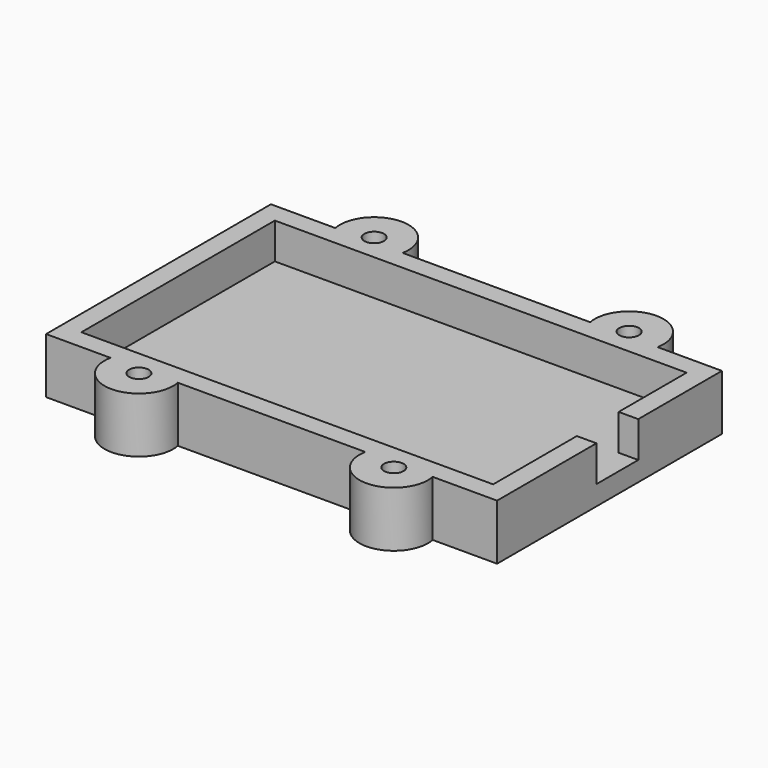
from build123d import *

# Parameters (mm, degrees)
BOX007_W          = 63
BOX007_H          = 37
BOX007_DEPTH      = 5.5
BOX006_W          = 10
BOX006_H          = 8
BOX006_DEPTH      = 5.5
CYLINDER016_R     = 3.25
CYLINDER016_DEPTH = 3
CYLINDER017_R     = 1.5
CYLINDER017_DEPTH = 8.5
CYLINDER018_R     = 5.25
CYLINDER018_DEPTH = 8.5
CYLINDER014_R     = 3.25
CYLINDER014_DEPTH = 3
CYLINDER013_R     = 1.5
CYLINDER013_DEPTH = 8.5
CYLINDER015_R     = 5.25
CYLINDER015_DEPTH = 8.5
CYLINDER010_R     = 3.25
CYLINDER010_DEPTH = 3
CYLINDER009_R     = 1.5
CYLINDER009_DEPTH = 8.5
CYLINDER008_R     = 5.25
CYLINDER008_DEPTH = 8.5
CYLINDER021_R     = 3.25
CYLINDER021_DEPTH = 3
CYLINDER020_R     = 1.5
CYLINDER020_DEPTH = 8.5
CYLINDER019_R     = 5.25
CYLINDER019_DEPTH = 8.5
CYLINDER023_R     = 3.25
CYLINDER023_DEPTH = 3
CYLINDER022_R     = 1.5
CYLINDER022_DEPTH = 8.5
CYLINDER025_R     = 3.25
CYLINDER025_DEPTH = 3
CYLINDER024_R     = 1.5
CYLINDER024_DEPTH = 8.5
CYLINDER026_R     = 3.25
CYLINDER026_DEPTH = 3
CYLINDER027_R     = 1.5
CYLINDER027_DEPTH = 8.5
CYLINDER029_R     = 3.25
CYLINDER029_DEPTH = 3
CYLINDER028_R     = 1.5
CYLINDER028_DEPTH = 8.5
BOX_W             = 63
BOX_H             = 37
BOX_DEPTH         = 6
BOX001_W          = 10
BOX001_H          = 8
BOX001_DEPTH      = 6
BOX002_W          = 69
BOX002_H          = 43
BOX002_DEPTH      = 8.5


with BuildPart() as cube006:
    # Box007 → Box007 (new body)
    with BuildSketch(Plane.XY):
        with Locations((31.5, 18.5)):
            Rectangle(BOX007_W, BOX007_H)
    extrude(amount=BOX007_DEPTH)


with BuildPart() as battery_model002:
    # Box006 → Box006 (new body)
    with BuildSketch(Plane(origin=(63, 16, 0), x_dir=(1, 0, 0), z_dir=(0, 0, 1))):
        with Locations((5, 4)):
            Rectangle(BOX006_W, BOX006_H)
    extrude(amount=BOX006_DEPTH)

    # Fusion012: union Cube006
    add(cube006.part)


with BuildPart() as battery_model002_1:
    # Fusion012 placement: moved
    add(battery_model002.part.moved(Location((3, 3, 3))))


with BuildPart() as nut_recess002:
    # Cylinder016 → Cylinder016 (new body)
    with BuildSketch(Plane(origin=(15, -1, 0), x_dir=(1, 0, 0), z_dir=(0, 0, 1))):
        Circle(CYLINDER016_R)
    extrude(amount=CYLINDER016_DEPTH)


with BuildPart() as base_bolt_assembly002:
    # Cylinder017 → Cylinder017 (new body)
    with BuildSketch(Plane(origin=(15, -1, 0), x_dir=(1, 0, 0), z_dir=(0, 0, 1))):
        Circle(CYLINDER017_R)
    extrude(amount=CYLINDER017_DEPTH)

    # Fusion004: union Nut Recess002
    add(nut_recess002.part)


with BuildPart() as obj1:
    # Cylinder018 → Cylinder018 (new body)
    with BuildSketch(Plane(origin=(15, -1, 0), x_dir=(1, 0, 0), z_dir=(0, 0, 1))):
        Circle(CYLINDER018_R)
    extrude(amount=CYLINDER018_DEPTH)

    # Cut005: cut Base Bolt Assembly002
    add(base_bolt_assembly002.part, mode=Mode.SUBTRACT)


with BuildPart() as obj1_1:
    # Cut005 placement: moved
    add(obj1.part.moved(Location((39, 45, 0))))


with BuildPart() as nut_recess001:
    # Cylinder014 → Cylinder014 (new body)
    with BuildSketch(Plane(origin=(15, -1, 0), x_dir=(1, 0, 0), z_dir=(0, 0, 1))):
        Circle(CYLINDER014_R)
    extrude(amount=CYLINDER014_DEPTH)


with BuildPart() as base_bolt_assembly001:
    # Cylinder013 → Cylinder013 (new body)
    with BuildSketch(Plane(origin=(15, -1, 0), x_dir=(1, 0, 0), z_dir=(0, 0, 1))):
        Circle(CYLINDER013_R)
    extrude(amount=CYLINDER013_DEPTH)

    # Fusion003: union Nut Recess001
    add(nut_recess001.part)


with BuildPart() as obj2:
    # Cylinder015 → Cylinder015 (new body)
    with BuildSketch(Plane(origin=(15, -1, 0), x_dir=(1, 0, 0), z_dir=(0, 0, 1))):
        Circle(CYLINDER015_R)
    extrude(amount=CYLINDER015_DEPTH)

    # Cut004: cut Base Bolt Assembly001
    add(base_bolt_assembly001.part, mode=Mode.SUBTRACT)


with BuildPart() as obj2_1:
    # Cut004 placement: moved
    add(obj2.part.moved(Location((39, 0, 0))))


with BuildPart() as nut_recess:
    # Cylinder010 → Cylinder010 (new body)
    with BuildSketch(Plane(origin=(15, -1, 0), x_dir=(1, 0, 0), z_dir=(0, 0, 1))):
        Circle(CYLINDER010_R)
    extrude(amount=CYLINDER010_DEPTH)


with BuildPart() as base_bolt_assembly:
    # Cylinder009 → Cylinder009 (new body)
    with BuildSketch(Plane(origin=(15, -1, 0), x_dir=(1, 0, 0), z_dir=(0, 0, 1))):
        Circle(CYLINDER009_R)
    extrude(amount=CYLINDER009_DEPTH)

    # Fusion002: union Nut Recess
    add(nut_recess.part)


with BuildPart() as obj3:
    # Cylinder008 → Cylinder008 (new body)
    with BuildSketch(Plane(origin=(15, -1, 0), x_dir=(1, 0, 0), z_dir=(0, 0, 1))):
        Circle(CYLINDER008_R)
    extrude(amount=CYLINDER008_DEPTH)

    # Cut002: cut Base Bolt Assembly
    add(base_bolt_assembly.part, mode=Mode.SUBTRACT)


with BuildPart() as nut_recess003:
    # Cylinder021 → Cylinder021 (new body)
    with BuildSketch(Plane(origin=(15, -1, 0), x_dir=(1, 0, 0), z_dir=(0, 0, 1))):
        Circle(CYLINDER021_R)
    extrude(amount=CYLINDER021_DEPTH)


with BuildPart() as base_bolt_assembly003:
    # Cylinder020 → Cylinder020 (new body)
    with BuildSketch(Plane(origin=(15, -1, 0), x_dir=(1, 0, 0), z_dir=(0, 0, 1))):
        Circle(CYLINDER020_R)
    extrude(amount=CYLINDER020_DEPTH)

    # Fusion005: union Nut Recess003
    add(nut_recess003.part)


with BuildPart() as base_bolt_assemblies_no_bat:
    # Cylinder019 → Cylinder019 (new body)
    with BuildSketch(Plane(origin=(15, -1, 0), x_dir=(1, 0, 0), z_dir=(0, 0, 1))):
        Circle(CYLINDER019_R)
    extrude(amount=CYLINDER019_DEPTH)

    # Cut006: cut Base Bolt Assembly003
    add(base_bolt_assembly003.part, mode=Mode.SUBTRACT)


with BuildPart() as base_bolt_assemblies_no_bat_1:
    # Cut006 placement: moved
    add(base_bolt_assemblies_no_bat.part.moved(Location((0, 45, 0))))

    # Fusion011: union obj1, obj2, obj3
    add(obj1_1.part)
    add(obj2_1.part)
    add(obj3.part)

    # Cut008: cut Battery Model002
    add(battery_model002_1.part, mode=Mode.SUBTRACT)


with BuildPart() as nut_recess004:
    # Cylinder023 → Cylinder023 (new body)
    with BuildSketch(Plane(origin=(15, -1, 0), x_dir=(1, 0, 0), z_dir=(0, 0, 1))):
        Circle(CYLINDER023_R)
    extrude(amount=CYLINDER023_DEPTH)


with BuildPart() as obj4:
    # Cylinder022 → Cylinder022 (new body)
    with BuildSketch(Plane(origin=(15, -1, 0), x_dir=(1, 0, 0), z_dir=(0, 0, 1))):
        Circle(CYLINDER022_R)
    extrude(amount=CYLINDER022_DEPTH)

    # Fusion006: union Nut Recess004
    add(nut_recess004.part)


with BuildPart() as nut_recess005:
    # Cylinder025 → Cylinder025 (new body)
    with BuildSketch(Plane(origin=(15, -1, 0), x_dir=(1, 0, 0), z_dir=(0, 0, 1))):
        Circle(CYLINDER025_R)
    extrude(amount=CYLINDER025_DEPTH)


with BuildPart() as obj5:
    # Cylinder024 → Cylinder024 (new body)
    with BuildSketch(Plane(origin=(15, -1, 0), x_dir=(1, 0, 0), z_dir=(0, 0, 1))):
        Circle(CYLINDER024_R)
    extrude(amount=CYLINDER024_DEPTH)

    # Fusion007: union Nut Recess005
    add(nut_recess005.part)


with BuildPart() as obj5_1:
    # Fusion007 placement: moved
    add(obj5.part.moved(Location((39, 0, 0))))


with BuildPart() as nut_recess006:
    # Cylinder026 → Cylinder026 (new body)
    with BuildSketch(Plane(origin=(15, -1, 0), x_dir=(1, 0, 0), z_dir=(0, 0, 1))):
        Circle(CYLINDER026_R)
    extrude(amount=CYLINDER026_DEPTH)


with BuildPart() as obj6:
    # Cylinder027 → Cylinder027 (new body)
    with BuildSketch(Plane(origin=(15, -1, 0), x_dir=(1, 0, 0), z_dir=(0, 0, 1))):
        Circle(CYLINDER027_R)
    extrude(amount=CYLINDER027_DEPTH)

    # Fusion008: union Nut Recess006
    add(nut_recess006.part)


with BuildPart() as obj6_1:
    # Fusion008 placement: moved
    add(obj6.part.moved(Location((39, 45, 0))))


with BuildPart() as nut_recess007:
    # Cylinder029 → Cylinder029 (new body)
    with BuildSketch(Plane(origin=(15, -1, 0), x_dir=(1, 0, 0), z_dir=(0, 0, 1))):
        Circle(CYLINDER029_R)
    extrude(amount=CYLINDER029_DEPTH)


with BuildPart() as base_bolt_remove_assembly:
    # Cylinder028 → Cylinder028 (new body)
    with BuildSketch(Plane(origin=(15, -1, 0), x_dir=(1, 0, 0), z_dir=(0, 0, 1))):
        Circle(CYLINDER028_R)
    extrude(amount=CYLINDER028_DEPTH)

    # Fusion009: union Nut Recess007
    add(nut_recess007.part)


with BuildPart() as base_bolt_remove_assembly_1:
    # Fusion009 placement: moved
    add(base_bolt_remove_assembly.part.moved(Location((0, 45, 0))))

    # Fusion010: union obj4, obj5, obj6
    add(obj4.part)
    add(obj5_1.part)
    add(obj6_1.part)


with BuildPart() as cube:
    # Box → Box (new body)
    with BuildSketch(Plane.XY):
        with Locations((31.5, 18.5)):
            Rectangle(BOX_W, BOX_H)
    extrude(amount=BOX_DEPTH)


with BuildPart() as battery_model:
    # Box001 → Box001 (new body)
    with BuildSketch(Plane(origin=(63, 16, 0), x_dir=(1, 0, 0), z_dir=(0, 0, 1))):
        with Locations((5, 4)):
            Rectangle(BOX001_W, BOX001_H)
    extrude(amount=BOX001_DEPTH)

    # Fusion: union Cube
    add(cube.part)


with BuildPart() as battery_model_1:
    # Fusion placement: moved
    add(battery_model.part.moved(Location((3, 3, 3))))


with BuildPart() as base_initial:
    # Box002 → Box002 (new body)
    with BuildSketch(Plane.XY):
        with Locations((34.5, 21.5)):
            Rectangle(BOX002_W, BOX002_H)
    extrude(amount=BOX002_DEPTH)

    # Cut: cut Battery Model
    add(battery_model_1.part, mode=Mode.SUBTRACT)

    # Cut007: cut Base Bolt Remove Assembly
    add(base_bolt_remove_assembly_1.part, mode=Mode.SUBTRACT)

    # Fusion013: union Base Bolt Assemblies - no Bat
    add(base_bolt_assemblies_no_bat_1.part)


solid = base_initial.part
